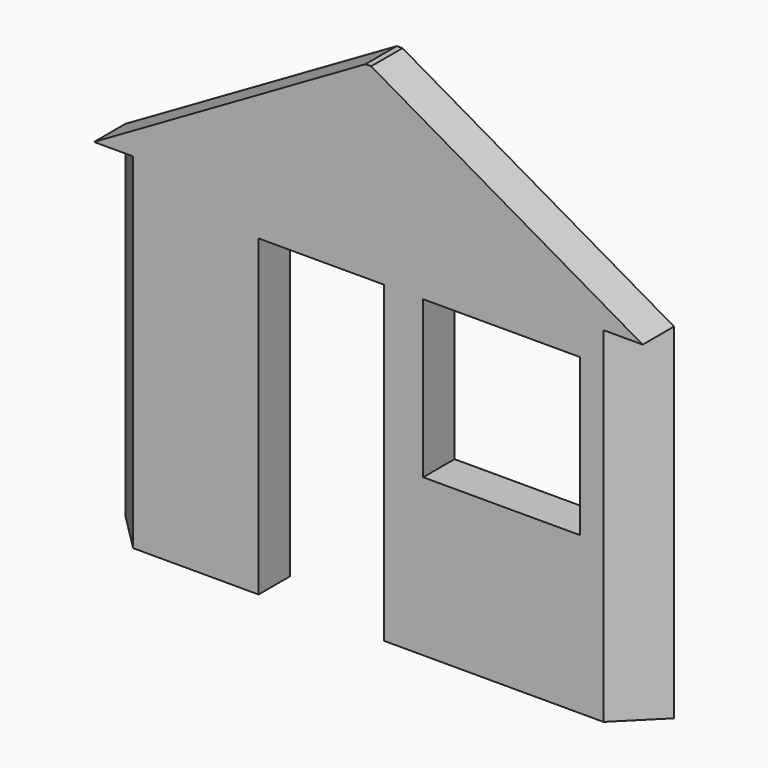
from build123d import *

# Parameters (mm, degrees)
F0_W      = 3500
F0_H      = 2200
F1_DEPTH  = 250
F3_DEPTH  = 2200.001
F4_W      = 3500
F4_H      = 250
F5_DEPTH  = 1000
F7_DEPTH  = 250.001
F8_W      = 800
F8_H      = 2000
F9_DEPTH  = 250.001
F10_W     = 1000
F10_H     = 1000
F11_DEPTH = 250.001


with BuildPart() as f1:
    # F0 (on Front) → F1 (new body)
    with BuildSketch(Plane.XZ):
        with Locations((1750, 1100)):
            Rectangle(F0_W, F0_H)
    extrude(amount=F1_DEPTH)

    # F2 (on face) → F3 (cut, through all)
    with BuildSketch(Plane.XY.offset(2200)):
        Polygon((250, -250), (0, 0), (0, -250), align=None)
        Polygon((3250, -250), (3500, -250), (3500, 0), align=None)
    extrude(amount=-F3_DEPTH, mode=Mode.SUBTRACT)

    # F4 (on face) → F5 (join)
    with BuildSketch(Plane.XY.offset(2200)):
        with Locations((1750, -125)):
            Rectangle(F4_W, F4_H)
    extrude(amount=F5_DEPTH)

    # F6 (on face) → F7 (cut, through all)
    with BuildSketch(Plane.XZ.offset(250)):
        Polygon((0, 3200), (0, 2200), (1732.050808, 3200), align=None)
        Polygon((3500, 3200), (1767.949192, 3200), (3500, 2200), align=None)
        Polygon((1750, 3210.362971), (1732.050808, 3200), (1767.949192, 3200), align=None)
    extrude(amount=-F7_DEPTH, mode=Mode.SUBTRACT)

    # F8 (on face) → F9 (cut, through all)
    with BuildSketch(Plane(origin=(0, 0, 0), x_dir=(-1, 0, 0), z_dir=(0, 1, 0))):
        with Locations((-1450, 1000)):
            Rectangle(F8_W, F8_H)
    extrude(amount=-F9_DEPTH, mode=Mode.SUBTRACT)

    # F10 (on face) → F11 (cut, through all)
    with BuildSketch(Plane(origin=(0, 0, 0), x_dir=(-1, 0, 0), z_dir=(0, 1, 0))):
        with Locations((-2600, 1500)):
            Rectangle(F10_W, F10_H)
    extrude(amount=-F11_DEPTH, mode=Mode.SUBTRACT)


solid = f1.part
